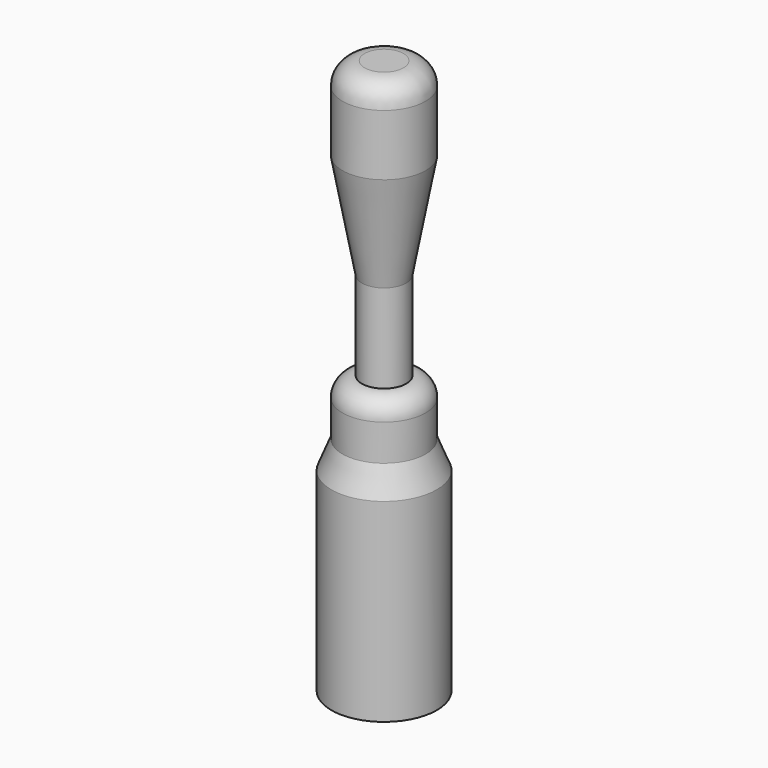
from build123d import *


with BuildPart() as f1:
    # F0 (on Front) → F1 (revolve)
    with BuildSketch(Plane.XZ):
        with BuildLine():
            Line((7.5, -15), (7.5, -4))
            ThreePointArc((7.5, -4), (6.328427, -1.171573), (3.5, 0))
            Line((3.5, 0), (0, 0))
            Line((0, 0), (0, -100))
            Line((0, -100), (9.5, -100))
            Line((9.5, -100), (9.5, -65))
            Line((9.5, -65), (7.5, -60))
            Line((7.5, -60), (7.5, -53.465673))
            ThreePointArc((7.5, -53.465673), (6.474874, -50.990799), (4, -49.965673))
            Line((4, -49.965673), (4, -34))
            Line((4, -34), (7.5, -15))
        make_face()
    revolve(axis=Axis((0, 0, -50), (0, 0, 1)))


solid = f1.part
